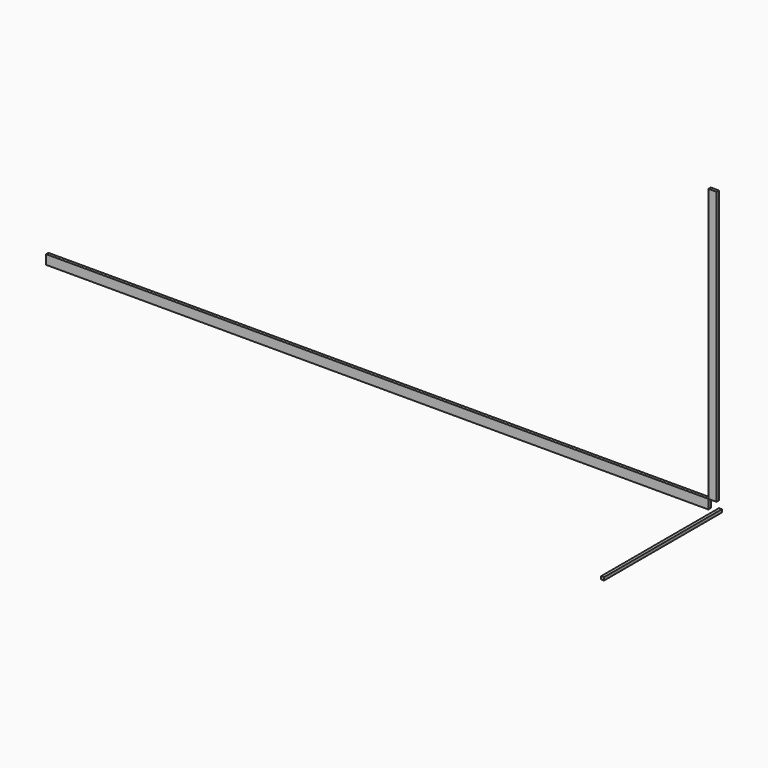
from build123d import *

# Parameters (mm, degrees)
F0_W     = 71.0048
F0_H     = 2357.187629
F1_DEPTH = 25.4
F0_W_2   = 5720.1952
F0_H_2   = 81.212371
F2_DEPTH = 25.4
F3_W     = 1272.554874
F3_H     = 25.291086
F4_DEPTH = 25.4


with BuildPart() as f1:
    # F0 (on Front) → F1 (new body)
    with BuildSketch(Plane.XZ):
        with Locations((-35.5024, -9.570301)):
            Rectangle(F0_W, F0_H)
    extrude(amount=F1_DEPTH)


with BuildPart() as f2:
    # F0 (on Front) → F2 (new body)
    with BuildSketch(Plane.XZ):
        with Locations((-2931.1024, -1228.7703)):
            Rectangle(F0_W_2, F0_H_2)
    extrude(amount=F2_DEPTH)


with BuildPart() as f4:
    # F3 (on Right) → F4 (new body)
    with BuildSketch(Plane.YZ):
        with Locations((-636.277437, -1258.455813)):
            Rectangle(F3_W, F3_H)
    extrude(amount=F4_DEPTH)


solid = Compound([f1.part, f2.part, f4.part])
